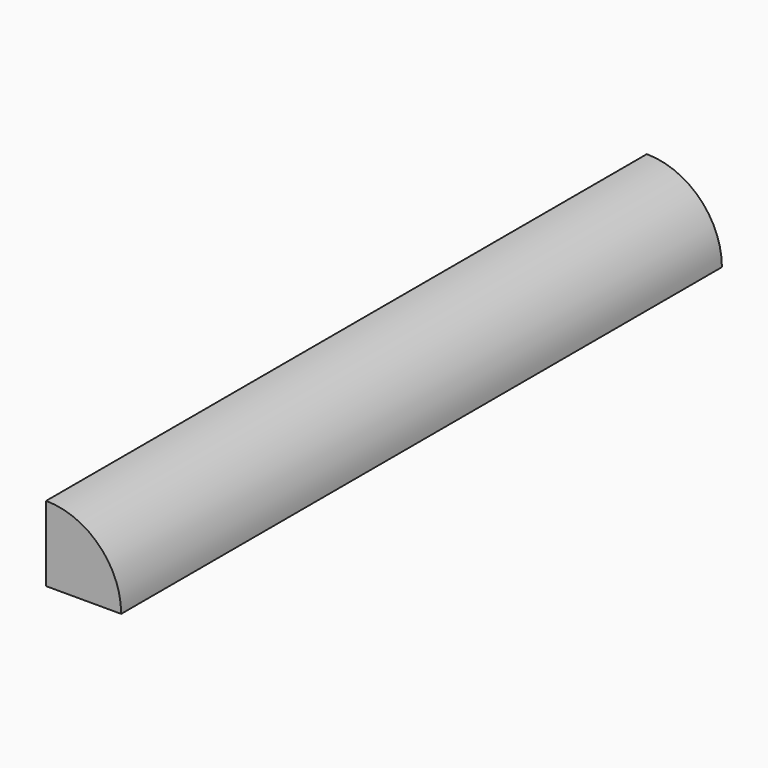
from build123d import *

# Parameters (mm, degrees)
F1_DEPTH = 254


with BuildPart() as f1:
    # F0 (on Front) → F1 (new body, symmetric)
    with BuildSketch(Plane.XZ):
        with BuildLine():
            Line((0, 50.8), (0, 0))
            Line((0, 0), (50.8, 0))
            ThreePointArc((50.8, 0), (35.9210244843, 35.9210244843), (0, 50.8))
        make_face()
    extrude(amount=F1_DEPTH, both=True)


solid = f1.part
